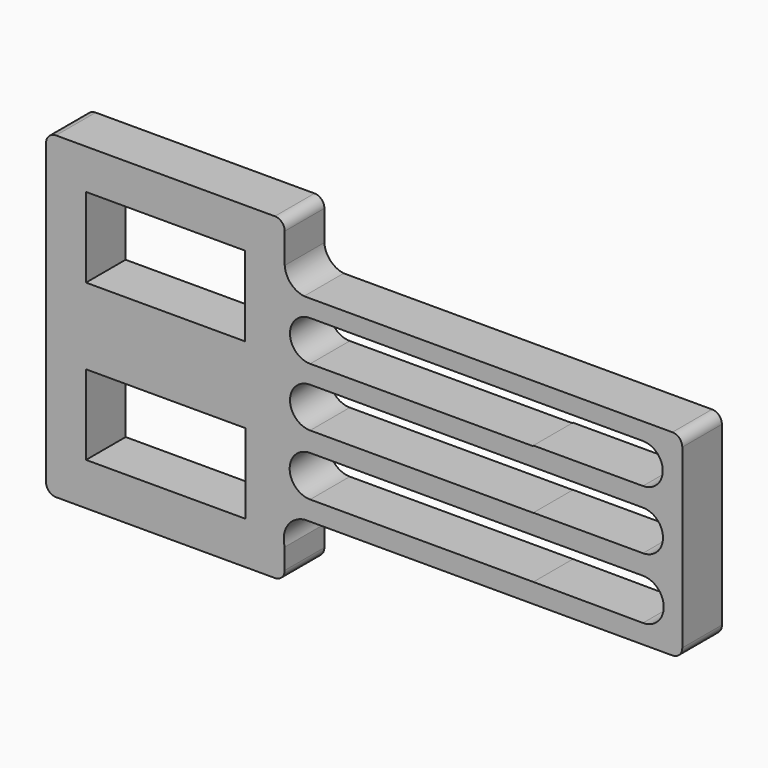
from build123d import *

# Parameters (mm, degrees)
F0_W     = 80.510266
F0_H     = 40.255
F0_W_2   = 80.250576
F0_H_2   = 40.303626
F1_DEPTH = 25


with BuildPart() as f1:
    # F0 (on Front) → F1 (new body)
    with BuildSketch(Plane.XZ):
        with BuildLine():
            ThreePointArc((5, 56.266025), (1.464466, 54.801559), (0, 51.266025))
            Line((0, 51.266025), (0, -99.455972))
            ThreePointArc((0, -99.455972), (1.464466, -102.991506), (5, -104.455972))
            Line((5, -104.455972), (115.446533, -104.455972))
            ThreePointArc((115.446533, -104.455972), (118.982067, -102.991506), (120.446533, -99.455972))
            Line((120.446533, -99.455972), (120.446533, -89.037247))
            ThreePointArc((120.446533, -89.037247), (121.92745, -78.936946), (130.640864, -73.618522))
            ThreePointArc((130.640864, -73.618522), (131.953245, -73.546657), (133.265626, -73.618522))
            Line((133.265626, -73.618522), (316.072694, -73.618522))
            ThreePointArc((316.072694, -73.618522), (319.608228, -72.154056), (321.072694, -68.618522))
            Line((321.072694, -68.618522), (321.072694, 20.555062))
            ThreePointArc((321.072694, 20.555062), (319.608228, 24.090596), (316.072694, 25.555062))
            Line((316.072694, 25.555062), (133.265626, 25.555062))
            ThreePointArc((133.265626, 25.555062), (131.720402, 25.448893), (130.175177, 25.555062))
            ThreePointArc((130.175177, 25.555062), (123.449805, 29.050008), (120.446533, 36.008861))
            Line((120.446533, 36.008861), (120.446533, 51.266025))
            ThreePointArc((120.446533, 51.266025), (118.982067, 54.801559), (115.446533, 56.266025))
            Line((115.446533, 56.266025), (5, 56.266025))
        make_face()
        with Locations((60.425106, -62.831243)):
            Rectangle(F0_W, F0_H, mode=Mode.SUBTRACT)
        with BuildLine():
            Line((133.266055, -43.083189), (245.90933, -43.083189))
            Line((245.90933, -43.083189), (301.210326, -43.022234))
            ThreePointArc((301.210326, -43.022234), (311.710326, -53.522234), (301.210326, -64.022234))
            Line((301.210326, -64.022234), (245.908901, -63.770004))
            Line((245.908901, -63.770004), (133.266055, -63.770004))
            ThreePointArc((133.266055, -63.770004), (122.922648, -53.426596), (133.266055, -43.083189))
        make_face(mode=Mode.SUBTRACT)
        with Locations((60.262561, 15.945572)):
            Rectangle(F0_W_2, F0_H_2, mode=Mode.SUBTRACT)
        with BuildLine():
            Line((245.908901, -33.022232), (245.908901, -33.096381))
            Line((245.908901, -33.096381), (133.265626, -33.096381))
            ThreePointArc((133.265626, -33.096381), (123.100552, -22.931306), (133.265626, -12.766232))
            Line((133.265626, -12.766232), (245.908901, -12.766232))
            Line((245.908901, -12.766232), (301.209897, -12.766232))
            ThreePointArc((301.209897, -12.766232), (311.337897, -22.894232), (301.209897, -33.022232))
            Line((301.209897, -33.022232), (245.908901, -33.022232))
        make_face(mode=Mode.SUBTRACT)
        with BuildLine():
            Line((245.908901, -3.161829), (245.908901, -3.493829))
            Line((245.908901, -3.493829), (133.265626, -3.493829))
            ThreePointArc((133.265626, -3.493829), (123.099626, 6.672171), (133.265626, 16.838171))
            Line((133.265626, 16.838171), (245.908901, 16.838171))
            Line((245.908901, 16.838171), (301.699797, 16.838171))
            ThreePointArc((301.699797, 16.838171), (311.212896, 6.599148), (301.209897, -3.161829))
            Line((301.209897, -3.161829), (245.908901, -3.161829))
        make_face(mode=Mode.SUBTRACT)
        with BuildLine():
            Line((133.265626, 25.555062), (130.175177, 25.555062))
            ThreePointArc((130.175177, 25.555062), (131.720402, 25.448893), (133.265626, 25.555062))
        make_face()
        with BuildLine():
            ThreePointArc((133.265626, -73.618522), (131.953245, -73.546657), (130.640864, -73.618522))
            Line((130.640864, -73.618522), (133.265626, -73.618522))
        make_face()
    extrude(amount=F1_DEPTH)


solid = f1.part
